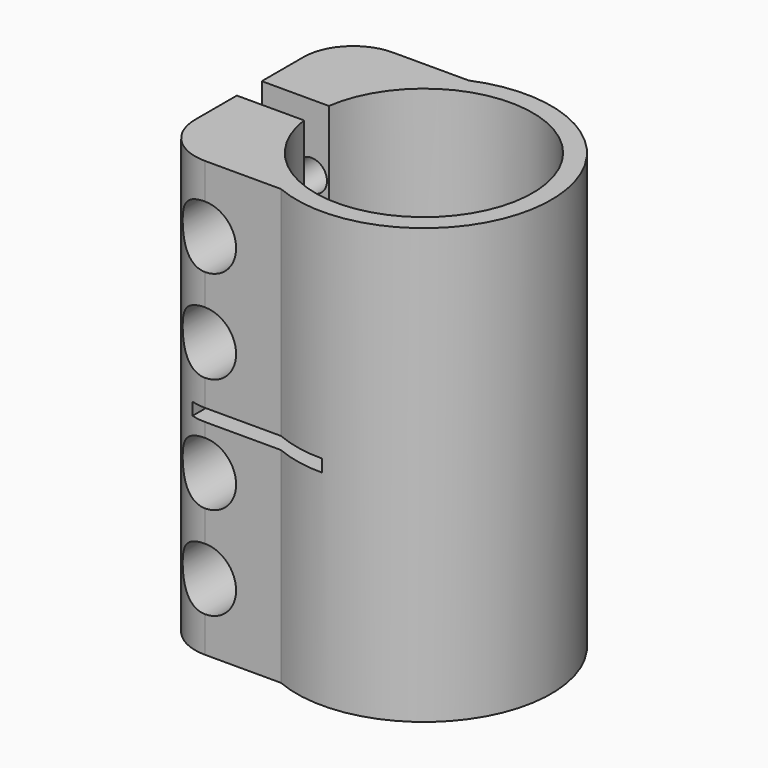
from build123d import *

# Parameters (mm, degrees)
F1_DEPTH       = 35
F3_D           = 5
F3_START       = 1.7550021
F3_CBORE_D     = 10
F3_CBORE_DEPTH = 8
F4_W           = 22.4
F4_H           = 2
F5_DEPTH       = 25


with BuildPart() as f1:
    # F0 (on Top) → F1 (new body, symmetric)
    with BuildSketch(Plane.XY):
        with BuildLine():
            ThreePointArc((-17.3192642082, 2.5086026559), (17.5, 0), (-17.3192642082, -2.5086026559))
            Line((-17.3192642082, -2.5086026559), (-28.1192642082, -2.5086026559))
            Line((-28.1192642082, -2.5086026559), (-28.1192642082, -10.9086026559))
            ThreePointArc((-28.1192642082, -10.9086026559), (-25.7761184577, -16.5654569054), (-20.1192642082, -18.9086026559))
            Line((-20.1192642082, -18.9086026559), (-7.9192642082, -18.9086026559))
            ThreePointArc((-7.9192642082, -18.9086026559), (20.5, 0), (-7.9192642082, 18.9086026559))
            Line((-7.9192642082, 18.9086026559), (-20.1192642082, 18.9086026559))
            ThreePointArc((-20.1192642082, 18.9086026559), (-25.7761184577, 16.5654569054), (-28.1192642082, 10.9086026559))
            Line((-28.1192642082, 10.9086026559), (-28.1192642082, 2.5086026559))
            Line((-28.1192642082, 2.5086026559), (-17.3192642082, 2.5086026559))
        make_face()
    extrude(amount=F1_DEPTH, both=True)

    # F3 (through all)
    # its depths count from where the whole tool has entered the part; down to there all is cleared
    with Locations(Plane.XZ.offset(18.9086026559).offset(-F3_START)):
        with Locations((-20.1192642082, 24.25), (-20.1192642082, 9.25), (-20.1192642082, -9.25), (-20.1192642082, -24.25)):
            CounterBoreHole(F3_D / 2, F3_CBORE_D / 2, F3_CBORE_DEPTH)

    # F4 (on Front) → F5 (cut, symmetric)
    with BuildSketch(Plane.XZ):
        with Locations((-11.2, -1)):
            Rectangle(F4_W, F4_H)
    extrude(amount=F5_DEPTH, both=True, mode=Mode.SUBTRACT)


solid = f1.part
